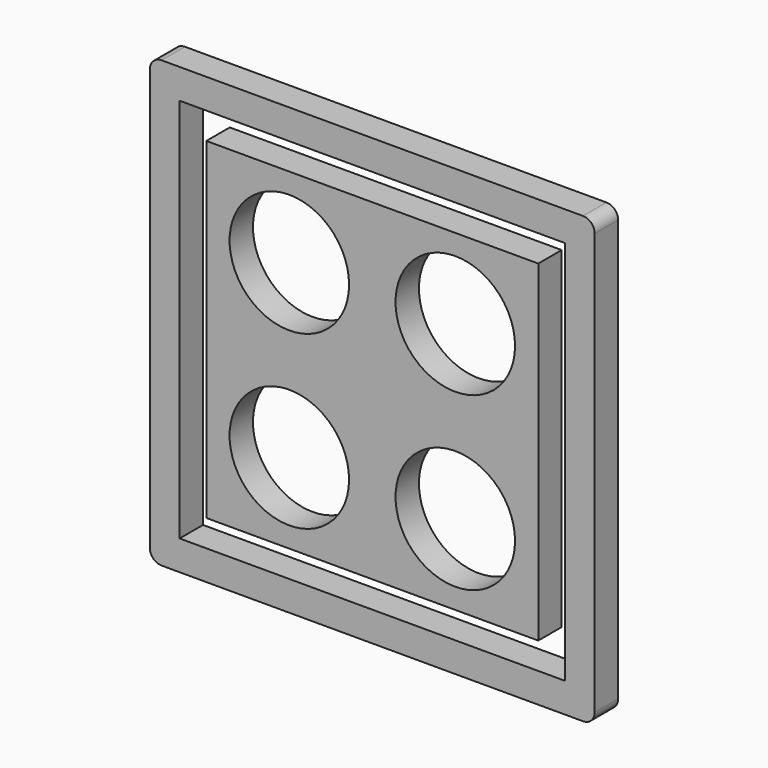
from build123d import *

# Parameters (mm, degrees)
F0_W     = 354.6
F0_H     = 354.6
F0_W_2   = 329.2
F0_H_2   = 329.2
F0_W_3   = 283.554444
F0_H_3   = 283.554444
F0_R     = 51.041172
F1_DEPTH = 25


with BuildPart() as f1:
    # F0 (on Front) → F1 (new body)
    with BuildSketch(Plane.XZ):
        with BuildLine():
            Line((180, 190), (-180, 190))
            ThreePointArc((-180, 190), (-187.071068, 187.071068), (-190, 180))
            Line((-190, 180), (-190, -180))
            ThreePointArc((-190, -180), (-187.071068, -187.071068), (-180, -190))
            Line((-180, -190), (180, -190))
            ThreePointArc((180, -190), (187.071068, -187.071068), (190, -180))
            Line((190, -180), (190, 180))
            ThreePointArc((190, 180), (187.071068, 187.071068), (180, 190))
        make_face()
        Rectangle(F0_W, F0_H, mode=Mode.SUBTRACT)
        Rectangle(F0_W, F0_H)
        Rectangle(F0_W_2, F0_H_2, mode=Mode.SUBTRACT)
        Rectangle(F0_W_3, F0_H_3)
        with Locations((-70.888611, -73.312916)):
            Circle(F0_R, mode=Mode.SUBTRACT)
        with Locations((70.888611, -73.312916)):
            Circle(F0_R, mode=Mode.SUBTRACT)
        with Locations((-70.888611, 73.312916)):
            Circle(F0_R, mode=Mode.SUBTRACT)
        with Locations((70.888611, 73.312916)):
            Circle(F0_R, mode=Mode.SUBTRACT)
    extrude(amount=F1_DEPTH)


solid = f1.part
